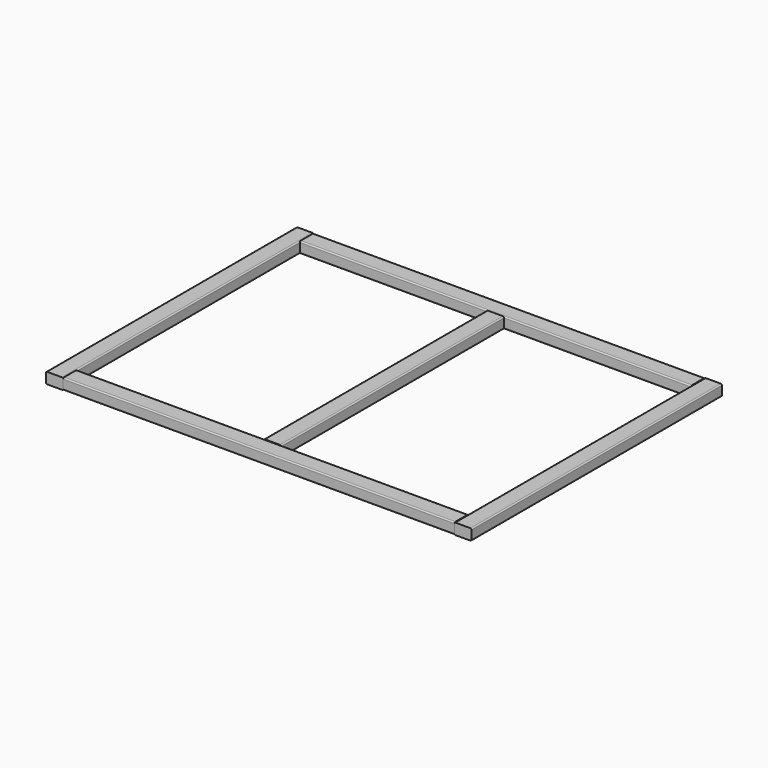
from build123d import *

# Parameters (mm, degrees)
F1_DEPTH = 1280
F3_DEPTH = 1600
F5_DEPTH = 1140


with BuildPart() as f1:
    # F0 (on Front) → F1 (new body)
    with BuildSketch(Plane.XZ):
        with BuildLine():
            ThreePointArc((0, 5), (1.464466, 1.464466), (5, 0))
            Line((5, 0), (65, 0))
            ThreePointArc((65, 0), (68.535534, 1.464466), (70, 5))
            Line((70, 5), (70, 40))
            ThreePointArc((70, 40), (68.535534, 43.535534), (65, 45))
            Line((65, 45), (5, 45))
            ThreePointArc((5, 45), (1.464466, 43.535534), (0, 40))
            Line((0, 40), (0, 5))
        make_face()
        with BuildLine():
            ThreePointArc((1670, 5), (1671.464466, 1.464466), (1675, 0))
            Line((1675, 0), (1735, 0))
            ThreePointArc((1735, 0), (1738.535534, 1.464466), (1740, 5))
            Line((1740, 5), (1740, 40))
            ThreePointArc((1740, 40), (1738.535534, 43.535534), (1735, 45))
            Line((1735, 45), (1675, 45))
            ThreePointArc((1675, 45), (1671.464466, 43.535534), (1670, 40))
            Line((1670, 40), (1670, 5))
        make_face()
    extrude(amount=F1_DEPTH)


with BuildPart() as f3:
    # F2 (on face) → F3 (new body, through all)
    with BuildSketch(Plane.YZ.offset(70)):
        with BuildLine():
            Line((-1215, 45), (-1275, 45))
            ThreePointArc((-1275, 45), (-1278.535534, 43.535534), (-1280, 40))
            Line((-1280, 40), (-1280, 5))
            ThreePointArc((-1280, 5), (-1278.535534, 1.464466), (-1275, 0))
            Line((-1275, 0), (-1215, 0))
            ThreePointArc((-1215, 0), (-1211.464466, 1.464466), (-1210, 5))
            Line((-1210, 5), (-1210, 40))
            ThreePointArc((-1210, 40), (-1211.464466, 43.535534), (-1215, 45))
        make_face()
        with BuildLine():
            Line((-65, 0), (-5, 0))
            ThreePointArc((-5, 0), (-1.464466, 1.464466), (0, 5))
            Line((0, 5), (0, 40))
            ThreePointArc((0, 40), (-1.464466, 43.535534), (-5, 45))
            Line((-5, 45), (-65, 45))
            ThreePointArc((-65, 45), (-68.535534, 43.535534), (-70, 40))
            Line((-70, 40), (-70, 5))
            ThreePointArc((-70, 5), (-68.535534, 1.464466), (-65, 0))
        make_face()
    extrude(amount=F3_DEPTH)


with BuildPart() as f5:
    # F4 (on face) → F5 (new body, through all)
    with BuildSketch(Plane.XZ.offset(70)):
        with BuildLine():
            ThreePointArc((835, 5), (836.464466, 1.464466), (840, 0))
            Line((840, 0), (900, 0))
            ThreePointArc((900, 0), (903.535534, 1.464466), (905, 5))
            Line((905, 5), (905, 40))
            ThreePointArc((905, 40), (903.535534, 43.535534), (900, 45))
            Line((900, 45), (840, 45))
            ThreePointArc((840, 45), (836.464466, 43.535534), (835, 40))
            Line((835, 40), (835, 5))
        make_face()
    extrude(amount=F5_DEPTH)


solid = Compound([f1.part, f3.part, f5.part])
